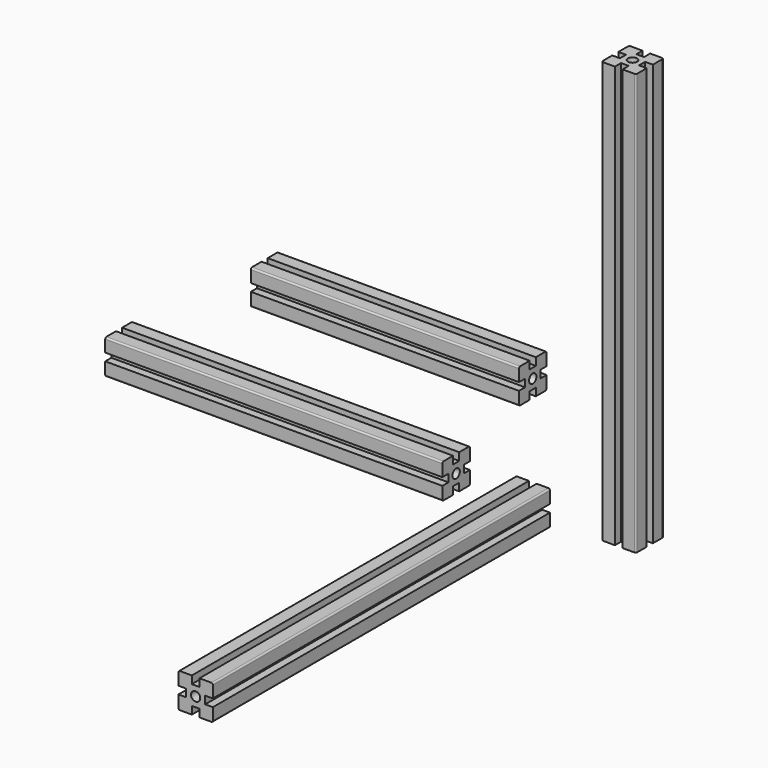
from build123d import *

# Parameters (mm, degrees)
F0_R      = 6
F1_DEPTH  = 350
F2_DEPTH  = 550
F4_ANGLE  = 90
F6_DEPTH  = 550
F7_ANGLE  = -90
F11_DEPTH = 440
F12_ANGLE = 90


with BuildPart() as f1:
    # F0 (on Front) → F1 (new body)
    with BuildSketch(Plane.XZ):
        with BuildLine():
            Line((-5, 22.5), (-20.5, 22.5))
            ThreePointArc((-20.5, 22.5), (-21.9142135624, 21.9142135624), (-22.5, 20.5))
            Line((-22.5, 20.5), (-22.5, 5))
            Line((-22.5, 5), (-12.5, 5))
            Line((-12.5, 5), (-12.5, -5))
            Line((-12.5, -5), (-22.5, -5))
            Line((-22.5, -5), (-22.5, -20.5))
            ThreePointArc((-22.5, -20.5), (-21.9142135624, -21.9142135624), (-20.5, -22.5))
            Line((-20.5, -22.5), (-5, -22.5))
            Line((-5, -22.5), (-5, -12.5))
            Line((-5, -12.5), (5, -12.5))
            Line((5, -12.5), (5, -22.5))
            Line((5, -22.5), (20.5, -22.5))
            ThreePointArc((20.5, -22.5), (21.9142135624, -21.9142135624), (22.5, -20.5))
            Line((22.5, -20.5), (22.5, -5))
            Line((22.5, -5), (12.5, -5))
            Line((12.5, -5), (12.5, 5))
            Line((12.5, 5), (22.5, 5))
            Line((22.5, 5), (22.5, 20.5))
            ThreePointArc((22.5, 20.5), (21.9142135624, 21.9142135624), (20.5, 22.5))
            Line((20.5, 22.5), (5, 22.5))
            Line((5, 22.5), (5, 12.5))
            Line((5, 12.5), (-5, 12.5))
            Line((-5, 12.5), (-5, 22.5))
        make_face()
        Circle(F0_R, mode=Mode.SUBTRACT)
    extrude(amount=F1_DEPTH)


with BuildPart() as f2:
    # F0 (on Front) → F2 (new body)
    with BuildSketch(Plane.XZ):
        with BuildLine():
            Line((-5, 22.5), (-20.5, 22.5))
            ThreePointArc((-20.5, 22.5), (-21.9142135624, 21.9142135624), (-22.5, 20.5))
            Line((-22.5, 20.5), (-22.5, 5))
            Line((-22.5, 5), (-12.5, 5))
            Line((-12.5, 5), (-12.5, -5))
            Line((-12.5, -5), (-22.5, -5))
            Line((-22.5, -5), (-22.5, -20.5))
            ThreePointArc((-22.5, -20.5), (-21.9142135624, -21.9142135624), (-20.5, -22.5))
            Line((-20.5, -22.5), (-5, -22.5))
            Line((-5, -22.5), (-5, -12.5))
            Line((-5, -12.5), (5, -12.5))
            Line((5, -12.5), (5, -22.5))
            Line((5, -22.5), (20.5, -22.5))
            ThreePointArc((20.5, -22.5), (21.9142135624, -21.9142135624), (22.5, -20.5))
            Line((22.5, -20.5), (22.5, -5))
            Line((22.5, -5), (12.5, -5))
            Line((12.5, -5), (12.5, 5))
            Line((12.5, 5), (22.5, 5))
            Line((22.5, 5), (22.5, 20.5))
            ThreePointArc((22.5, 20.5), (21.9142135624, 21.9142135624), (20.5, 22.5))
            Line((20.5, 22.5), (5, 22.5))
            Line((5, 22.5), (5, 12.5))
            Line((5, 12.5), (-5, 12.5))
            Line((-5, 12.5), (-5, 22.5))
        make_face()
        Circle(F0_R, mode=Mode.SUBTRACT)
    extrude(amount=F2_DEPTH)


with BuildPart() as f1_1:
    # F4: moved
    add(f1.part.rotate(Axis((0, 0, 0.7008500397), (0, 0, -1)), F4_ANGLE))


with BuildPart() as f1_2:
    # F5: moved
    add(f1_1.part.moved(Location((0, 0, 141.6990384459))))


with BuildPart() as f6:
    # F0 (on Front) → F6 (new body)
    with BuildSketch(Plane.XZ):
        with BuildLine():
            Line((-5, 22.5), (-20.5, 22.5))
            ThreePointArc((-20.5, 22.5), (-21.9142135624, 21.9142135624), (-22.5, 20.5))
            Line((-22.5, 20.5), (-22.5, 5))
            Line((-22.5, 5), (-12.5, 5))
            Line((-12.5, 5), (-12.5, -5))
            Line((-12.5, -5), (-22.5, -5))
            Line((-22.5, -5), (-22.5, -20.5))
            ThreePointArc((-22.5, -20.5), (-21.9142135624, -21.9142135624), (-20.5, -22.5))
            Line((-20.5, -22.5), (-5, -22.5))
            Line((-5, -22.5), (-5, -12.5))
            Line((-5, -12.5), (5, -12.5))
            Line((5, -12.5), (5, -22.5))
            Line((5, -22.5), (20.5, -22.5))
            ThreePointArc((20.5, -22.5), (21.9142135624, -21.9142135624), (22.5, -20.5))
            Line((22.5, -20.5), (22.5, -5))
            Line((22.5, -5), (12.5, -5))
            Line((12.5, -5), (12.5, 5))
            Line((12.5, 5), (22.5, 5))
            Line((22.5, 5), (22.5, 20.5))
            ThreePointArc((22.5, 20.5), (21.9142135624, 21.9142135624), (20.5, 22.5))
            Line((20.5, 22.5), (5, 22.5))
            Line((5, 22.5), (5, 12.5))
            Line((5, 12.5), (-5, 12.5))
            Line((-5, 12.5), (-5, 22.5))
        make_face()
        Circle(F0_R, mode=Mode.SUBTRACT)
    extrude(amount=F6_DEPTH)


with BuildPart() as f6_1:
    # F7: moved
    add(f6.part.rotate(Axis((-3.5042464733, 0, 0), (1, 0, 0)), F7_ANGLE))


with BuildPart() as f6_2:
    # F8: moved
    add(f6_1.part.moved(Location((130.2305907011, 0, 0))))


with BuildPart() as f9_1:
    # F9: copy of F1
    add(f1_2.part.moved(Location((0, -399, 0))))


with BuildPart() as f11:
    # F0 (on Front) → F11 (new body)
    with BuildSketch(Plane.XZ):
        with BuildLine():
            Line((-5, 22.5), (-20.5, 22.5))
            ThreePointArc((-20.5, 22.5), (-21.9142135624, 21.9142135624), (-22.5, 20.5))
            Line((-22.5, 20.5), (-22.5, 5))
            Line((-22.5, 5), (-12.5, 5))
            Line((-12.5, 5), (-12.5, -5))
            Line((-12.5, -5), (-22.5, -5))
            Line((-22.5, -5), (-22.5, -20.5))
            ThreePointArc((-22.5, -20.5), (-21.9142135624, -21.9142135624), (-20.5, -22.5))
            Line((-20.5, -22.5), (-5, -22.5))
            Line((-5, -22.5), (-5, -12.5))
            Line((-5, -12.5), (5, -12.5))
            Line((5, -12.5), (5, -22.5))
            Line((5, -22.5), (20.5, -22.5))
            ThreePointArc((20.5, -22.5), (21.9142135624, -21.9142135624), (22.5, -20.5))
            Line((22.5, -20.5), (22.5, -5))
            Line((22.5, -5), (12.5, -5))
            Line((12.5, -5), (12.5, 5))
            Line((12.5, 5), (22.5, 5))
            Line((22.5, 5), (22.5, 20.5))
            ThreePointArc((22.5, 20.5), (21.9142135624, 21.9142135624), (20.5, 22.5))
            Line((20.5, 22.5), (5, 22.5))
            Line((5, 22.5), (5, 12.5))
            Line((5, 12.5), (-5, 12.5))
            Line((-5, 12.5), (-5, 22.5))
        make_face()
        Circle(F0_R, mode=Mode.SUBTRACT)
    extrude(amount=F11_DEPTH)


with BuildPart() as f11_1:
    # F12: moved
    add(f11.part.rotate(Axis((0, 0, 0.7008500397), (0, 0, -1)), F12_ANGLE))


with BuildPart() as f11_2:
    # F13: moved
    add(f11_1.part.moved(Location((-100, 0, 0))))


solid = Compound([f2.part, f1_2.part, f6_2.part, f11_2.part])
